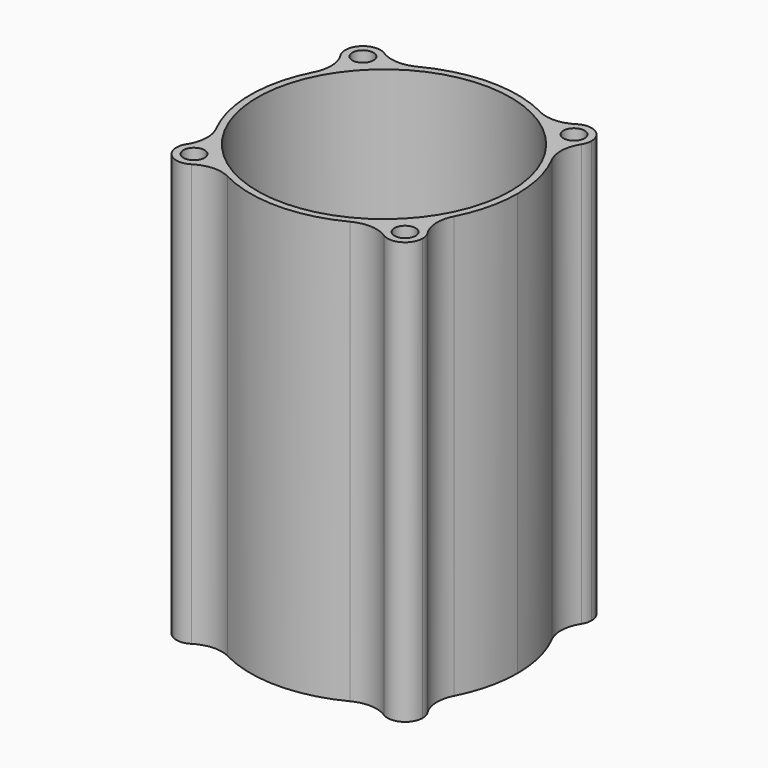
from build123d import *

# Parameters (mm, degrees)
F0_R     = 1.5
F0_R_2   = 18
F1_DEPTH = 60
F2_R     = 5


with BuildPart() as f1:
    # F0 (on Top) → F1 (new body)
    with BuildSketch(Plane.XY):
        with BuildLine():
            ThreePointArc((-14.1902170115, 12.6347829885), (-13.4350288425, 13.4350288425), (-12.6347829885, 14.1902170115))
            ThreePointArc((-12.6347829885, 14.1902170115), (-12.533925941, 14.5895383872), (-12.5, 15))
            ThreePointArc((-12.5, 15), (-17.0340178799, 16.4535375002), (-14.1902170115, 12.6347829885))
        make_face()
        with Locations((-15, 15)):
            Circle(F0_R, mode=Mode.SUBTRACT)
        with BuildLine():
            ThreePointArc((12.6347829885, 14.1902170115), (13.232233047, 13.232233047), (14.1902170115, 12.6347829885))
            ThreePointArc((14.1902170115, 12.6347829885), (13.4350288425, 13.4350288425), (12.6347829885, 14.1902170115))
        make_face()
        with BuildLine():
            ThreePointArc((12.6347829885, 14.1902170115), (13.4350288425, 13.4350288425), (14.1902170115, 12.6347829885))
            ThreePointArc((14.1902170115, 12.6347829885), (16.4535375002, 12.9659821201), (17.5, 15))
            ThreePointArc((17.5, 15), (14.5895383872, 17.466074059), (12.6347829885, 14.1902170115))
        make_face()
        with Locations((15, 15)):
            Circle(F0_R, mode=Mode.SUBTRACT)
        with BuildLine():
            ThreePointArc((12.6347829885, -14.1902170115), (13.4350288425, -13.4350288425), (14.1902170115, -12.6347829885))
            ThreePointArc((14.1902170115, -12.6347829885), (13.232233047, -13.232233047), (12.6347829885, -14.1902170115))
        make_face()
        with BuildLine():
            ThreePointArc((17.5, -15), (16.4535375002, -12.9659821201), (14.1902170115, -12.6347829885))
            ThreePointArc((14.1902170115, -12.6347829885), (13.4350288425, -13.4350288425), (12.6347829885, -14.1902170115))
            ThreePointArc((12.6347829885, -14.1902170115), (14.5895383872, -17.466074059), (17.5, -15))
        make_face()
        with Locations((15, -15)):
            Circle(F0_R, mode=Mode.SUBTRACT)
        with BuildLine():
            ThreePointArc((-14.1902170115, -12.6347829885), (-13.4350288425, -13.4350288425), (-12.6347829885, -14.1902170115))
            ThreePointArc((-12.6347829885, -14.1902170115), (-13.232233047, -13.232233047), (-14.1902170115, -12.6347829885))
        make_face()
        with BuildLine():
            ThreePointArc((-12.5, -15), (-12.533925941, -14.5895383872), (-12.6347829885, -14.1902170115))
            ThreePointArc((-12.6347829885, -14.1902170115), (-13.4350288425, -13.4350288425), (-14.1902170115, -12.6347829885))
            ThreePointArc((-14.1902170115, -12.6347829885), (-17.0340178799, -16.4535375002), (-12.5, -15))
        make_face()
        with Locations((-15, -15)):
            Circle(F0_R, mode=Mode.SUBTRACT)
        with BuildLine():
            ThreePointArc((14.1902170115, -12.6347829885), (17.7568877231, -6.7596551976), (19, 0))
            ThreePointArc((19, 0), (17.7568877231, 6.7596551976), (14.1902170115, 12.6347829885))
            ThreePointArc((14.1902170115, 12.6347829885), (13.232233047, 13.232233047), (12.6347829885, 14.1902170115))
            ThreePointArc((12.6347829885, 14.1902170115), (0, 19), (-12.6347829885, 14.1902170115))
            ThreePointArc((-12.6347829885, 14.1902170115), (-13.232233047, 13.232233047), (-14.1902170115, 12.6347829885))
            ThreePointArc((-14.1902170115, 12.6347829885), (-19, 0), (-14.1902170115, -12.6347829885))
            ThreePointArc((-14.1902170115, -12.6347829885), (-13.232233047, -13.232233047), (-12.6347829885, -14.1902170115))
            ThreePointArc((-12.6347829885, -14.1902170115), (0, -19), (12.6347829885, -14.1902170115))
            ThreePointArc((12.6347829885, -14.1902170115), (13.232233047, -13.232233047), (14.1902170115, -12.6347829885))
        make_face()
        Circle(F0_R_2, mode=Mode.SUBTRACT)
        with BuildLine():
            ThreePointArc((-14.1902170115, 12.6347829885), (-13.232233047, 13.232233047), (-12.6347829885, 14.1902170115))
            ThreePointArc((-12.6347829885, 14.1902170115), (-13.4350288425, 13.4350288425), (-14.1902170115, 12.6347829885))
        make_face()
    extrude(amount=-F1_DEPTH)

    # F2
    f2_edges = [f1.edges().sort_by_distance(p)[0] for p in [
        (-14.190217, 12.634783, -30),
        (-14.190217, -12.634783, -30),
        (12.634783, 14.190217, -30),
        (-12.634783, 14.190217, -30),
        (14.190217, 12.634783, -30),
        (14.190217, -12.634783, -30),
        (12.634783, -14.190217, -30),
        (-12.634783, -14.190217, -30),
    ]]
    fillet(f2_edges, radius=F2_R)


solid = f1.part
